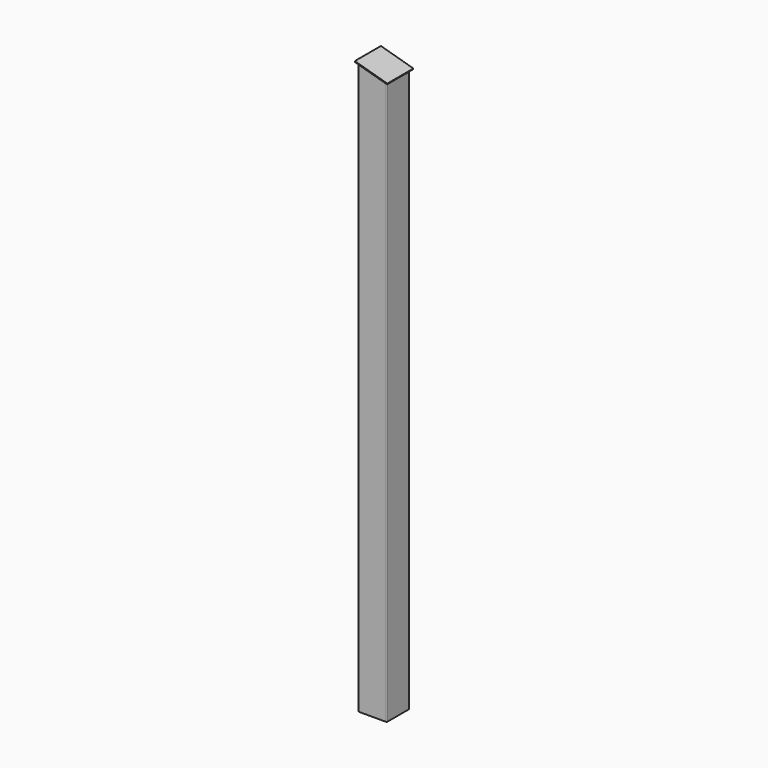
from build123d import *

# Parameters (mm, degrees)
F1_DEPTH      = 1400
F3_DEPTH      = 35
F3_DEPTH_BACK = 35
F6_DEPTH      = 2


with BuildPart() as f1:
    # F0 (on Top) → F1 (new body)
    with BuildSketch(Plane.XY):
        with BuildLine():
            ThreePointArc((-35, -33), (-34.4142135624, -34.4142135624), (-33, -35))
            Line((-33, -35), (33, -35))
            ThreePointArc((33, -35), (34.4142135624, -34.4142135624), (35, -33))
            Line((35, -33), (35, 33))
            ThreePointArc((35, 33), (34.4142135624, 34.4142135624), (33, 35))
            Line((33, 35), (-33, 35))
            ThreePointArc((-33, 35), (-34.4142135624, 34.4142135624), (-35, 33))
            Line((-35, 33), (-35, -33))
        make_face()
        with BuildLine():
            Line((32, -33), (-32, -33))
            ThreePointArc((-32, -33), (-32.7071067812, -32.7071067812), (-33, -32))
            Line((-33, -32), (-33, 32))
            ThreePointArc((-33, 32), (-32.7071067812, 32.7071067812), (-32, 33))
            Line((-32, 33), (32, 33))
            ThreePointArc((32, 33), (32.7071067812, 32.7071067812), (33, 32))
            Line((33, 32), (33, -32))
            ThreePointArc((33, -32), (32.7071067812, -32.7071067812), (32, -33))
        make_face(mode=Mode.SUBTRACT)
    extrude(amount=F1_DEPTH)

    # F2 (on Front) → F3 (cut, two sides)
    with BuildSketch(Plane.XZ) as f3_sk:
        Polygon((-35, 1400), (35, 1380), (35, 1400), align=None)
    extrude(amount=-F3_DEPTH, mode=Mode.SUBTRACT)
    extrude(f3_sk.sketch, amount=F3_DEPTH_BACK, mode=Mode.SUBTRACT)

    # F5 (on offset) → F6 (join)
    with BuildSketch(Plane(origin=(367.1698113208, 0, 1285.0943396226), x_dir=(0.9615239476, 0, -0.2747211279), z_dir=(0.2747211279, 0, 0.9615239476))):
        with BuildLine():
            Line((-341.461818331, 40), (-422.2629172238, 40))
            ThreePointArc((-422.2629172238, 40), (-422.9700240049, 39.7071067812), (-423.2629172238, 39))
            Line((-423.2629172238, 39), (-423.2629172238, -39))
            ThreePointArc((-423.2629172238, -39), (-422.9700240049, -39.7071067812), (-422.2629172238, -40))
            Line((-422.2629172238, -40), (-341.461818331, -40))
            ThreePointArc((-341.461818331, -40), (-340.7547115498, -39.7071067812), (-340.461818331, -39))
            Line((-340.461818331, -39), (-340.461818331, 39))
            ThreePointArc((-340.461818331, 39), (-340.7547115498, 39.7071067812), (-341.461818331, 40))
        make_face()
    extrude(amount=F6_DEPTH)


solid = f1.part
